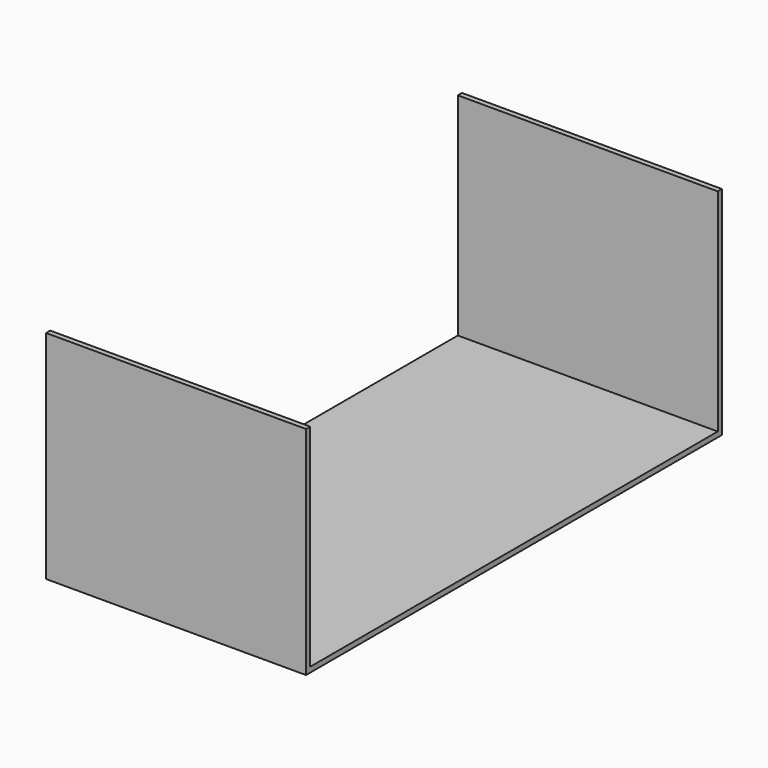
from build123d import *

# Parameters (mm, degrees)
F0_W     = 600
F0_H     = 12
F1_DEPTH = 500
F2_DEPTH = 12


with BuildPart() as f1:
    # F0 (on Top) → F1 (new body)
    with BuildSketch(Plane.XY):
        with Locations((-808.5126264931, 528.488914907)):
            Rectangle(F0_W, F0_H)
    extrude(amount=F1_DEPTH)



with BuildPart() as f1b:
    # F0 (on Top) → F1, piece 2 (new body)
    with BuildSketch(Plane.XY):
        with Locations((-808.5126264931, -659.511085093)):
            Rectangle(F0_W, F0_H)
    extrude(amount=F1_DEPTH)


with BuildPart() as f1_1:
    add(f1.part)

    add(f1b.part)  # F2 merges F1b
    # F0 (on Top) → F2 (join)
    with BuildSketch(Plane.XY):
        Polygon((-508.5126264931, 522.488914907), (-1108.5126264931, 522.488914907), (-1108.5126264931, -653.511085093), (-508.5126264931, -653.511085093), (-508.5126264931, -609.109044075), align=None)
    extrude(amount=F2_DEPTH)


solid = f1_1.part
